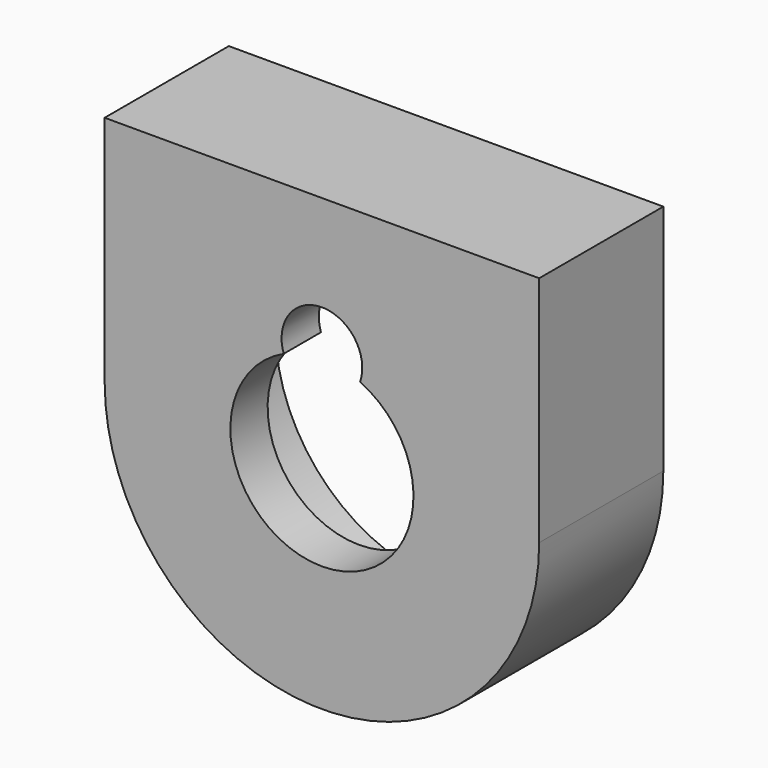
from build123d import *

# Parameters (mm, degrees)
PAD_DEPTH       = 10
SKETCH002_R     = 11
POCKET_DEPTH    = 7
SKETCH003_R     = 5.9
POCKET001_DEPTH = 5
SKETCH004_R     = 2.6
POCKET002_DEPTH = 5


with BuildPart() as part:
    # Sketch → Pad (new body)
    with BuildSketch(Plane.XZ):
        with BuildLine():
            Line((-14, 15), (-14, 0))
            ThreePointArc((-14, 0), (0, -14), (14, 0))
            Line((14, 0), (14, 15))
            Line((14, 15), (-14, 15))
        make_face()
    extrude(amount=PAD_DEPTH)

    # Sketch002 (on Face5 of Pad) → Pocket (cut)
    with BuildSketch(Plane(origin=(0, 0, 0), x_dir=(1, 0, 0), z_dir=(0, 1, 0))):
        Circle(SKETCH002_R)
    extrude(amount=-POCKET_DEPTH, mode=Mode.SUBTRACT)

    # Sketch003 (on Face5 of Pocket) → Pocket001 (cut)
    with BuildSketch(Plane.XZ.offset(10)):
        Circle(SKETCH003_R)
    extrude(amount=-POCKET001_DEPTH, mode=Mode.SUBTRACT)

    # Sketch004 (on Face5 of Pocket001) → Pocket002 (cut)
    with BuildSketch(Plane.XZ.offset(10)):
        with Locations((0, 6.2)):
            Circle(SKETCH004_R)
    extrude(amount=-POCKET002_DEPTH, mode=Mode.SUBTRACT)


solid = part.part
